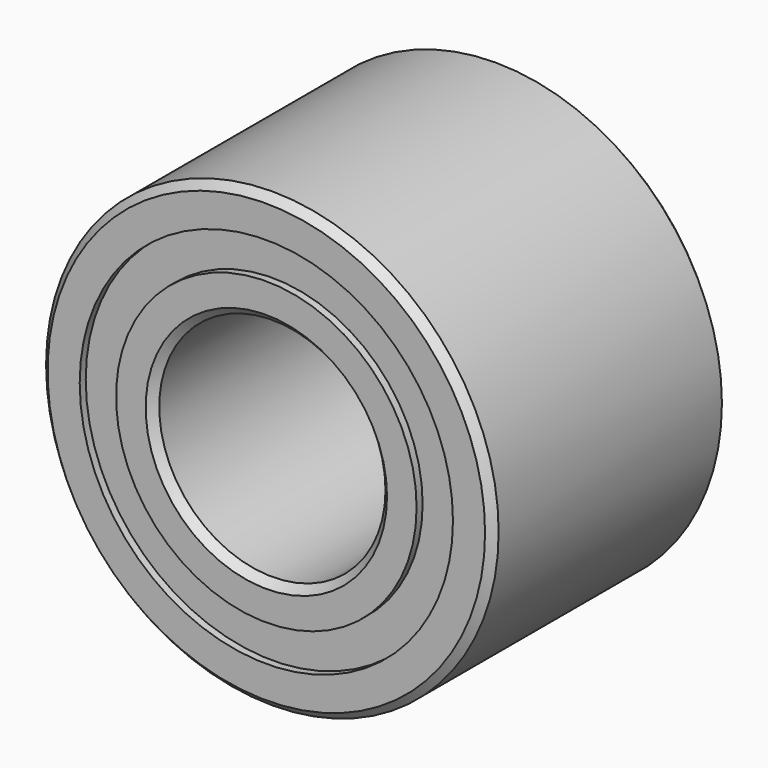
from build123d import *

# Parameters (mm, degrees)
F0_R     = 30
F1_DEPTH = 39
F2_R     = 15
F3_DEPTH = 39.001
F4_SIZE  = 1
F5_R     = 24.743506
F5_R_2   = 19.921836
F6_DEPTH = 1
F7_R     = 24.743506
F7_R_2   = 19.921836
F8_DEPTH = 1


with BuildPart() as f1:
    # F0 (on Front) → F1 (new body)
    with BuildSketch(Plane.XZ):
        Circle(F0_R)
    extrude(amount=F1_DEPTH)

    # F2 (on face) → F3 (cut, through all)
    with BuildSketch(Plane.XZ.offset(39)):
        Circle(F2_R)
    extrude(amount=-F3_DEPTH, mode=Mode.SUBTRACT)

    # F4
    f4_edges = [f1.edges().sort_by_distance(p)[0] for p in [
        (-30, -39, 0),
        (-15, -39, 0),
        (-30, 0, 0),
        (-15, 0, 0),
    ]]
    chamfer(f4_edges, length=F4_SIZE)

    # F5 (on face) → F6 (cut)
    with BuildSketch(Plane(origin=(0, 0, 0), x_dir=(-1, 0, 0), z_dir=(0, 1, 0))):
        Circle(F5_R)
        Circle(F5_R_2, mode=Mode.SUBTRACT)
    extrude(amount=-F6_DEPTH, mode=Mode.SUBTRACT)

    # F7 (on face) → F8 (cut)
    with BuildSketch(Plane.XZ.offset(39)):
        Circle(F7_R)
        Circle(F7_R_2, mode=Mode.SUBTRACT)
    extrude(amount=-F8_DEPTH, mode=Mode.SUBTRACT)


solid = f1.part
